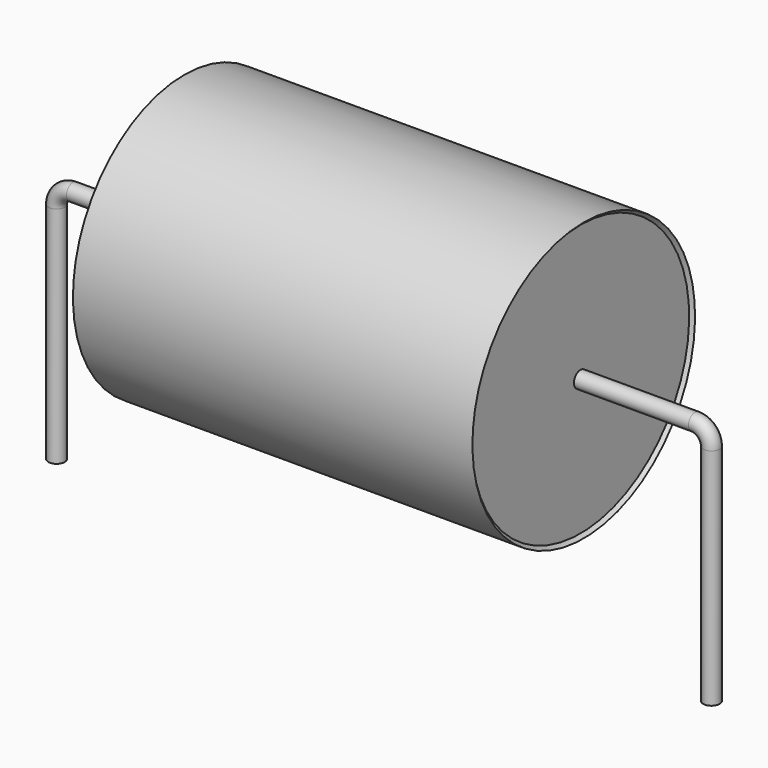
from build123d import *

# Parameters (mm, degrees)
SKETCH_R = 0.25


with BuildPart() as sweep_body:
    # Sweep: sweep along a path in Sketch001
    with BuildLine(Plane.XZ) as sweep_path:
        Line((0, -3), (0, 3.85))
        ThreePointArc((0, 3.85), (0.146443, 4.20355), (0.49999, 4.35))
        Line((0.49999, 4.35), (19.5, 4.35))
        ThreePointArc((19.5, 4.35), (19.853553, 4.203553), (20, 3.85))
        Line((20, 3.85), (20, -3))
    # Sketch → Sweep (sweep)
    with BuildSketch(Plane.XY.offset(-2)):
        Circle(SKETCH_R)
    sweep(path=sweep_path.line)


with BuildPart() as revolution:
    # Sketch002 → Revolution (revolve)
    with BuildSketch(Plane.XZ):
        Polygon((3.9, 8.6), (16.1, 8.6), (16, 8.5), (16, 4.35), (4, 4.35), (4, 8.5), align=None)
    revolve(axis=Axis((7.611803, 0, 4.35), (1, 0, 0)))


solid = Compound([sweep_body.part, revolution.part])
